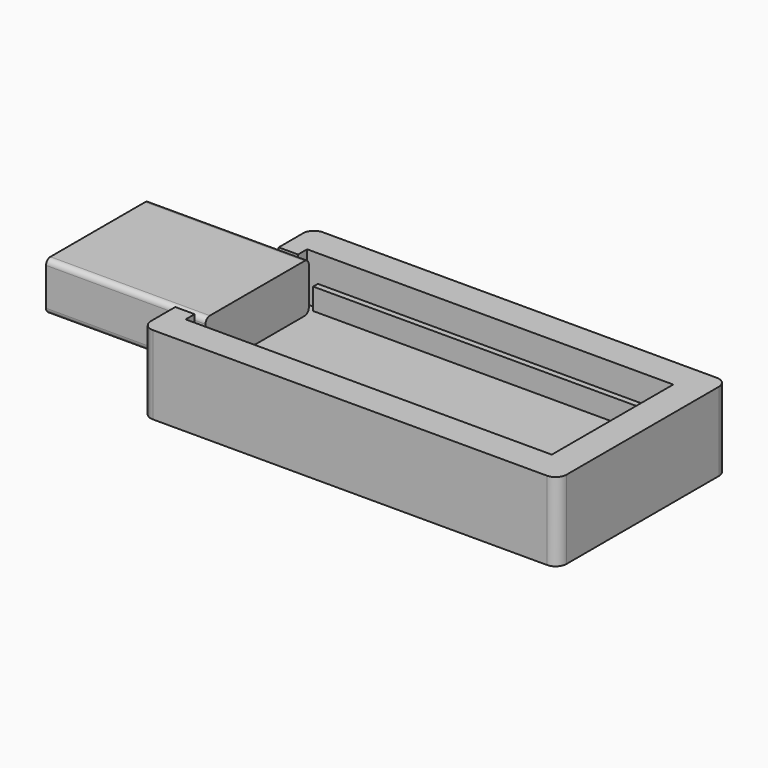
from build123d import *

# Parameters (mm, degrees)
F1_DEPTH = 4.5
F2_R     = 0.5
F3_W     = 38.6
F3_H     = 19.7
F4_DEPTH = 2.8
F5_DEPTH = 4.5
F6_DEPTH = 2
F8_R     = 1


with BuildPart() as f1:
    # F0 (on Top) → F1 (new body)
    with BuildSketch(Plane.XY):
        Polygon((-42.4457360953, 18.6344647732), (-43.4457360953, 18.6344647732), (-45.2457360953, 18.6344647732), (-57.2457360953, 18.6344647732), (-57.2457360953, 12.6344647732), (-42.4457360953, 12.6344647732), align=None)
        Polygon((-42.4457360953, 6.6344647732), (-42.4457360953, 12.6344647732), (-57.2457360953, 12.6344647732), (-57.2457360953, 6.6344647732), (-45.2457360953, 6.6344647732), (-43.4457360953, 6.6344647732), align=None)
    extrude(amount=F1_DEPTH)

    # F2
    f2_edges = [f1.edges().sort_by_distance(p)[0] for p in [
        (-49.845736, 6.634465, 4.5),
        (-49.845736, 6.634465, 0),
        (-49.845736, 18.634465, 0),
        (-49.845736, 18.634465, 4.5),
    ]]
    fillet(f2_edges, radius=F2_R)


with BuildPart() as f4:
    # F3 (on Top) → F4 (new body)
    with BuildSketch(Plane.XY):
        with Locations((-25.9457360953, 12.6344647732)):
            Rectangle(F3_W, F3_H)
    extrude(amount=-F4_DEPTH)



with BuildPart() as f5:
    # F0 (on Top) → F5 (new body)
    with BuildSketch(Plane.XY):
        Polygon((-43.4457360953, 18.6344647732), (-43.4457360953, 19.6844647732), (-42.4457360953, 19.6844647732), (-9.4457360953, 19.6844647732), (-9.4457360953, 5.5844647732), (-42.4457360953, 5.5844647732), (-43.4457360953, 5.5844647732), (-43.4457360953, 6.6344647732), (-45.2457360953, 6.6344647732), (-45.2457360953, 2.7844647732), (-6.6457360953, 2.7844647732), (-6.6457360953, 22.4844647732), (-45.2457360953, 22.4844647732), (-45.2457360953, 18.6344647732), align=None)
    extrude(amount=F5_DEPTH)


with BuildPart() as f4_1:
    add(f4.part)

    add(f5.part)  # F6 merges F5
    # F0 (on Top) → F6 (join)
    with BuildSketch(Plane.XY):
        Polygon((-9.4457360953, 19.6844647732), (-42.4457360953, 19.6844647732), (-42.4457360953, 19.1344647732), (-9.9957360953, 19.1344647732), (-9.9957360953, 6.1344647732), (-42.4457360953, 6.1344647732), (-42.4457360953, 5.5844647732), (-9.4457360953, 5.5844647732), align=None)
    extrude(amount=F6_DEPTH)

    # F8
    f8_edges = [f4_1.edges().sort_by_distance(p)[0] for p in [
        (-45.245736, 2.784465, 0.85),
        (-45.245736, 22.484465, 0.85),
        (-6.645736, 22.484465, 0.85),
        (-6.645736, 2.784465, 0.85),
    ]]
    fillet(f8_edges, radius=F8_R)


solid = Compound([f1.part, f4_1.part])
